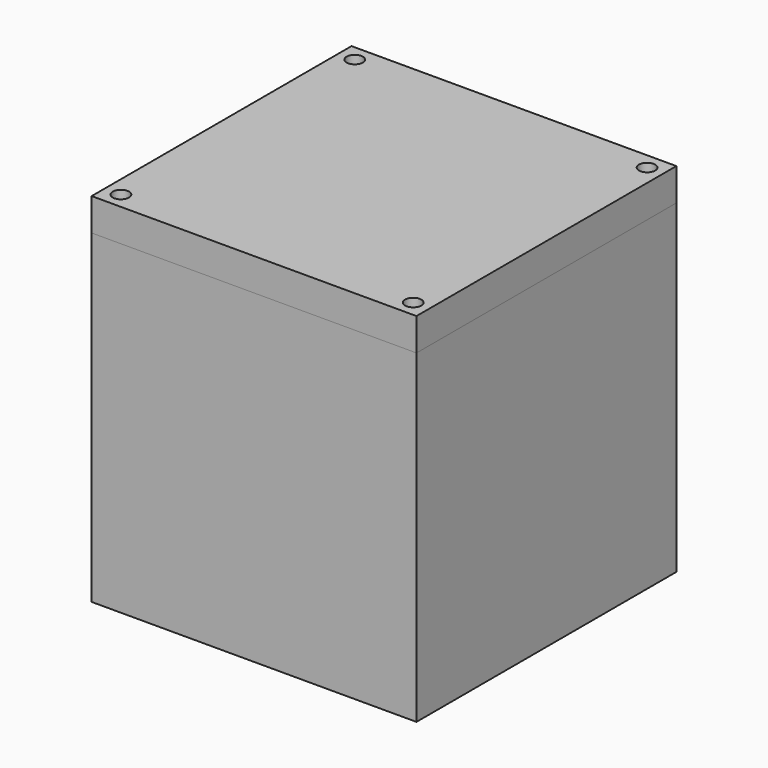
from build123d import *

# Parameters (mm, degrees)
F0_W     = 100
F0_H     = 100
F0_W_2   = 80
F0_H_2   = 80
F1_DEPTH = 100
F2_R     = 2.5
F3_DEPTH = 100.001
F4_W     = 100
F4_H     = 100
F4_R     = 2.5
F5_DEPTH = 10


with BuildPart() as f1:
    # F0 (on Top) → F1 (new body)
    with BuildSketch(Plane.XY):
        with Locations((50, 50)):
            Rectangle(F0_W, F0_H)
        with Locations((50, 50)):
            Rectangle(F0_W_2, F0_H_2, mode=Mode.SUBTRACT)
    extrude(amount=F1_DEPTH)

    # F2 (on face) → F3 (cut, through all)
    with BuildSketch(Plane.XY.offset(100)):
        with Locations((5, 95)):
            Circle(F2_R)
        with Locations((95, 95)):
            Circle(F2_R)
        with Locations((5, 5)):
            Circle(F2_R)
        with Locations((95, 5)):
            Circle(F2_R)
    extrude(amount=-F3_DEPTH, mode=Mode.SUBTRACT)


with BuildPart() as f5:
    # F4 (on face) → F5 (new body)
    with BuildSketch(Plane.XY.offset(100)):
        with Locations((50, 50)):
            Rectangle(F4_W, F4_H)
        with Locations((5, 5)):
            Circle(F4_R, mode=Mode.SUBTRACT)
        with Locations((95, 5)):
            Circle(F4_R, mode=Mode.SUBTRACT)
        with Locations((5, 95)):
            Circle(F4_R, mode=Mode.SUBTRACT)
        with Locations((95, 95)):
            Circle(F4_R, mode=Mode.SUBTRACT)
    extrude(amount=F5_DEPTH)


solid = Compound([f1.part, f5.part])
